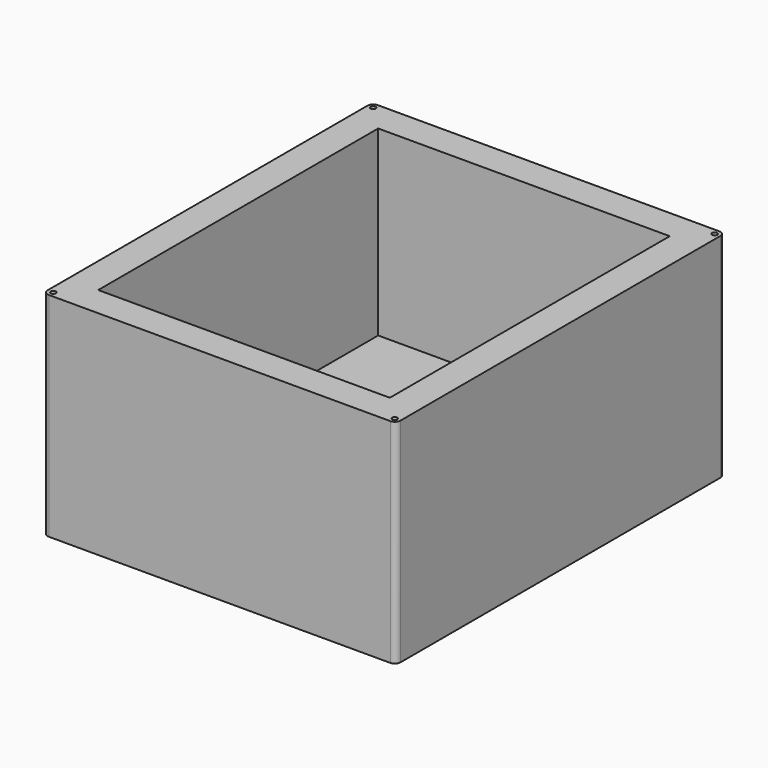
from build123d import *

# Parameters (mm, degrees)
F0_W     = 61.468
F0_H     = 71.628
F0_W_2   = 50.8
F0_H_2   = 60.96
F1_DEPTH = 18.542
F2_W     = 50.8
F2_H     = 60.96
F3_DEPTH = 5.334
F4_R     = 0.9906
F5_T     = -2.54
F6_R     = 0.4445
F7_DEPTH = 3.3782


with BuildPart() as f1:
    # F0 (on Top) → F1 (new body, symmetric)
    with BuildSketch(Plane.XY):
        Rectangle(F0_W, F0_H)
        Rectangle(F0_W_2, F0_H_2, mode=Mode.SUBTRACT)
    extrude(amount=F1_DEPTH, both=True)

    # F2 (on face) → F3 (join)
    with BuildSketch(Plane(origin=(0, 0, -18.542), x_dir=(1, 0, 0), z_dir=(0, 0, -1))):
        Rectangle(F2_W, F2_H)
    extrude(amount=-F3_DEPTH)

    # F4
    f4_edges = [f1.edges().sort_by_distance(p)[0] for p in [
        (-30.734, 35.814, 0),
        (30.734, 35.814, 0),
        (30.734, -35.814, 0),
        (-30.734, -35.814, 0),
    ]]
    fillet(f4_edges, radius=F4_R)

    # F5
    f5_openings = [f1.faces().sort_by_distance(p)[0] for p in [
        (0, 0, -18.542),
    ]]
    offset(amount=F5_T, openings=f5_openings, kind=Kind.INTERSECTION)

    # F6 (on face) → F7 (cut)
    with BuildSketch(Plane.XY.offset(18.542)):
        with Locations((-29.7434, 34.8234)):
            Circle(F6_R)
        with Locations((29.7434, 34.8234)):
            Circle(F6_R)
        with Locations((29.7434, -34.8234)):
            Circle(F6_R)
        with Locations((-29.7434, -34.8234)):
            Circle(F6_R)
    extrude(amount=-F7_DEPTH, mode=Mode.SUBTRACT)


solid = f1.part
